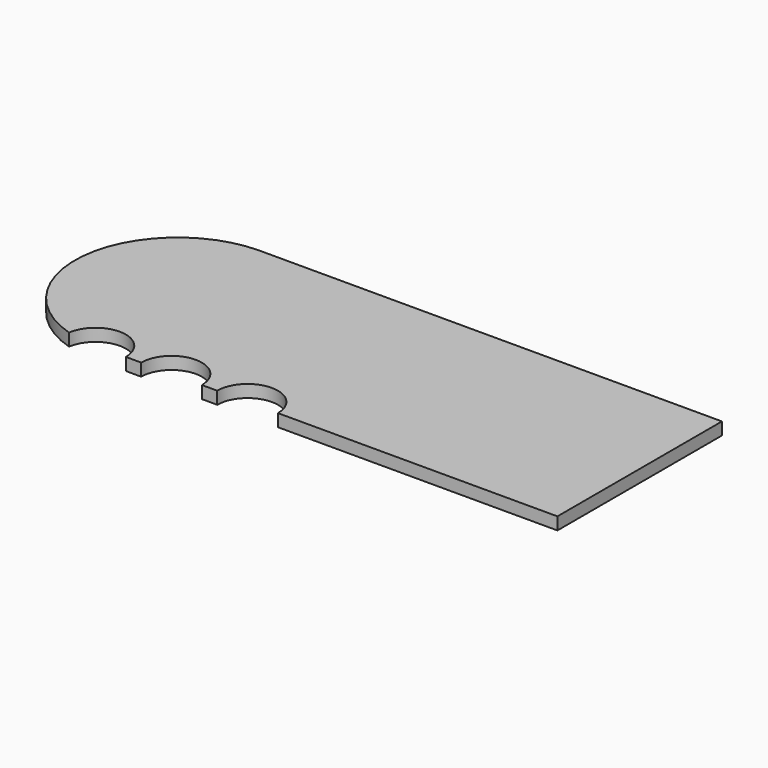
from build123d import *

# Parameters (mm, degrees)
F0_W     = 47.2001447342
F0_H     = 21.0098214447
F1_DEPTH = 1.27
F3_DEPTH = 25.4


with BuildPart() as f1:
    # F0 (on Top) → F1 (new body)
    with BuildSketch(Plane.XY):
        with Locations((20.0024985243, 5.7561155409)):
            Rectangle(F0_W, F0_H)
        with BuildLine():
            Line((-3.5975738429, -4.7487951815), (-3.5975738429, 16.2610262632))
            ThreePointArc((-3.5975738429, 16.2610262632), (-14.1024845652, 5.7561155409), (-3.5975738429, -4.7487951815))
        make_face()
    extrude(amount=F1_DEPTH)

    # F2 (on face) → F3 (cut)
    with BuildSketch(Plane.XY.offset(1.27)):
        with BuildLine():
            Line((7.2729477569, -4.7487951815), (1.0734235958, -4.7487951815))
            ThreePointArc((1.0734235958, -4.7487951815), (4.1731856763, -7.8485572621), (7.2729477569, -4.7487951815))
        make_face()
        with BuildLine():
            ThreePointArc((7.2729477569, -4.7487951815), (4.1731856763, -1.6490331009), (1.0734235958, -4.7487951815))
            Line((1.0734235958, -4.7487951815), (7.2729477569, -4.7487951815))
        make_face()
        with BuildLine():
            Line((-3.5975738429, -4.7487951815), (-0.4978117623, -4.7487951815))
            ThreePointArc((-0.4978117623, -4.7487951815), (-3.3682781868, -1.6575254653), (-6.6634129987, -4.2914602641))
            ThreePointArc((-6.6634129987, -4.2914602641), (-5.1474548831, -4.6338323919), (-3.5975738429, -4.7487951815))
        make_face()
        with BuildLine():
            ThreePointArc((15.0437012225, -4.7487951815), (11.9439391419, -1.6490331009), (8.8441770613, -4.7487951815))
            Line((8.8441770613, -4.7487951815), (15.0437012225, -4.7487951815))
        make_face()
    extrude(amount=-F3_DEPTH, mode=Mode.SUBTRACT)


solid = f1.part
